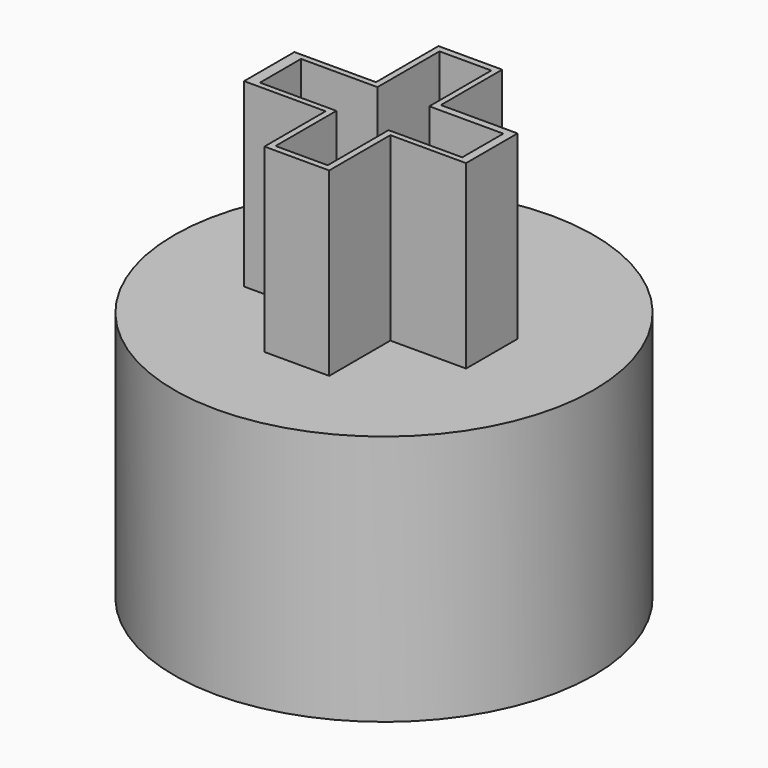
from build123d import *

# Parameters (mm, degrees)
F1_DEPTH = 3.6
F2_R     = 4.175691
F3_DEPTH = 5


with BuildPart() as f1:
    # F0 (on Top) → F1 (new body)
    with BuildSketch(Plane.XY):
        Polygon((-7.798966, 3.565042), (-7.798966, 3.40516), (-7.798966, 2.043468), (-6.51053, 2.043468), (-6.51053, 3.565042), (-5.003069, 3.565042), (-5.003069, 4.845792), (-6.530446, 4.845792), (-6.530446, 6.373515), (-7.798966, 6.373515), (-7.798966, 4.817828), (-9.421718, 4.817828), (-9.421718, 3.565042), align=None)
        Polygon((-7.676174, 4.701823), (-7.676174, 6.222657), (-7.676174, 6.244424), (-6.644283, 6.244424), (-6.644283, 4.701823), (-5.171032, 4.701823), (-5.171032, 3.679394), (-6.637731, 3.679394), (-6.637731, 2.165352), (-7.676174, 2.165352), (-7.676174, 3.679394), (-9.197469, 3.679394), (-9.197469, 4.701823), align=None, mode=Mode.SUBTRACT)
    extrude(amount=F1_DEPTH)

    # F2 (on face) → F3 (join)
    with BuildSketch(Plane(origin=(0, 0, 0), x_dir=(1, 0, 0), z_dir=(0, 0, -1))):
        with Locations((-7.177457, -4.240896)):
            Circle(F2_R)
    extrude(amount=F3_DEPTH)


solid = f1.part
